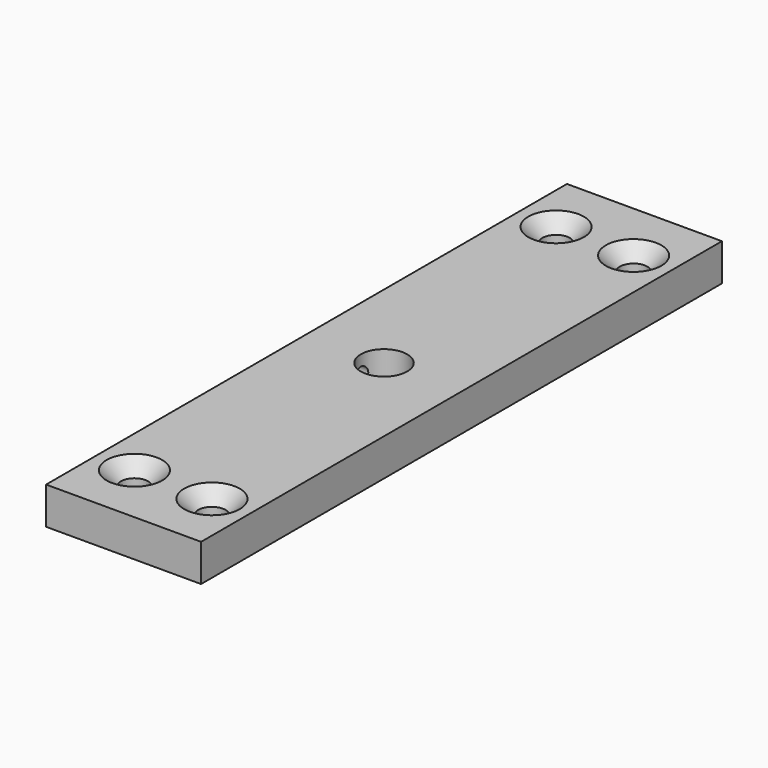
from build123d import *

# Parameters (mm, degrees)
F0_W           = 50
F0_H           = 210
F1_DEPTH       = 12
F3_D           = 8.8
F3_CSINK_D     = 17.92
F3_CSINK_ANGLE = 90
F5_D           = 15
F7_D           = 5
F7_DEPTH       = 20
F7_TIP         = 1.5021515476


with BuildPart() as f1:
    # F0 (on Top) → F1 (new body)
    with BuildSketch(Plane.XY):
        with Locations((25, 105)):
            Rectangle(F0_W, F0_H)
    extrude(amount=-F1_DEPTH)

    # F3 (through all)
    with Locations(Plane.XY):
        with Locations((12.5, 20), (37.5, 20), (37.5, 190), (12.5, 190)):
            CounterSinkHole(F3_D / 2, F3_CSINK_D / 2, counter_sink_angle=F3_CSINK_ANGLE)

    # F5 (through all)
    with Locations(Plane.XY):
        with Locations((25, 105)):
            Hole(F5_D / 2)

    # F7
    with Locations(Plane(origin=(0, 0, 0), x_dir=(0, -1, 0), z_dir=(-1, 0, 0))):
        with Locations((-105, -6)):
            Hole(F7_D / 2, depth=F7_DEPTH)
            with Locations((0, 0, -(F7_DEPTH + F7_TIP / 2))):  # 118° drill point
                Cone(0, F7_D / 2, F7_TIP, mode=Mode.SUBTRACT)


solid = f1.part
